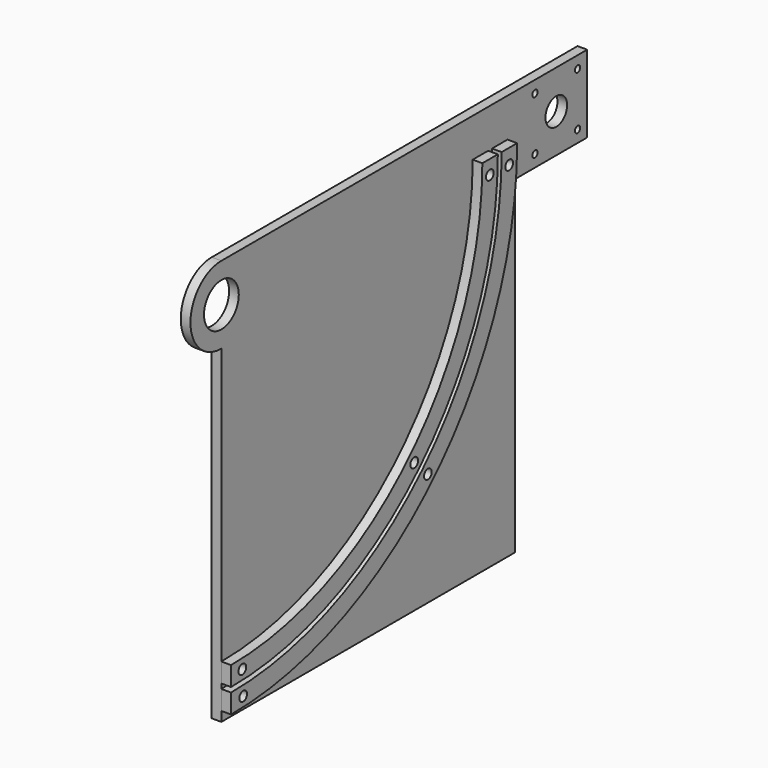
from build123d import *

# Parameters (mm, degrees)
F0_R     = 2.159
F0_R_2   = 8.89
F0_R_3   = 3.175
F1_DEPTH = 6.35
F2_DEPTH = 6.35
F3_DEPTH = 6.35


with BuildPart() as f1:
    # F0 (on Right) → F1 (new body)
    with BuildSketch(Plane.YZ):
        with BuildLine():
            Line((-136.1317900279, 241.3), (-125.0192900279, 241.3))
            ThreePointArc((-125.0192900279, 241.3), (-132.4587777858, 259.2605122421), (-150.4192900279, 266.7))
            ThreePointArc((-150.4192900279, 266.7), (-175.8192900279, 241.3), (-150.4192900279, 215.9))
            Line((-150.4192900279, 215.9), (-150.4192900279, 227.0125))
            ThreePointArc((-150.4192900279, 227.0125), (-160.5220781641, 251.4027881362), (-136.1317900279, 241.3))
        make_face()
        with BuildLine():
            ThreePointArc((-150.4192900279, 215.9), (-132.4587777858, 223.3394877579), (-125.0192900279, 241.3))
            Line((-125.0192900279, 241.3), (-136.1317900279, 241.3))
            ThreePointArc((-136.1317900279, 241.3), (-140.3165018917, 231.1972118638), (-150.4192900279, 227.0125))
            Line((-150.4192900279, 227.0125), (-150.4192900279, 215.9))
        make_face()
        with BuildLine():
            ThreePointArc((-150.4192900279, 266.7), (-132.4587777858, 259.2605122421), (-125.0192900279, 241.3))
            Line((-125.0192900279, 241.3), (55.9557099721, 241.3))
            Line((55.9557099721, 241.3), (68.6557099721, 241.3))
            Line((68.6557099721, 241.3), (71.8307099721, 241.3))
            Line((71.8307099721, 241.3), (84.5307099721, 241.3))
            Line((84.5307099721, 241.3), (90.8807099721, 241.3))
            Line((90.8807099721, 241.3), (90.8807099721, 266.7))
            Line((90.8807099721, 266.7), (-150.4192900279, 266.7))
        make_face()
        Polygon((150.0042899721, 266.7), (90.8807099721, 266.7), (90.8807099721, 241.3), (90.8807099721, 215.9), (150.0042899721, 215.9), align=None)
        with Locations((107.1042899721, 223.8)):
            Circle(F0_R, mode=Mode.SUBTRACT)
        with Locations((142.1042899721, 223.8)):
            Circle(F0_R, mode=Mode.SUBTRACT)
        with Locations((107.1042899721, 258.8)):
            Circle(F0_R, mode=Mode.SUBTRACT)
        with Locations((124.6042899721, 241.3)):
            Circle(F0_R_2, mode=Mode.SUBTRACT)
        with Locations((142.1042899721, 258.8)):
            Circle(F0_R, mode=Mode.SUBTRACT)
        with BuildLine():
            Line((90.8807099721, 215.9), (90.8807099721, 241.3))
            Line((90.8807099721, 241.3), (84.5307099721, 241.3))
            ThreePointArc((84.5307099721, 241.3), (15.7154482119, 75.1652617602), (-150.4192900279, 6.35))
            Line((-150.4192900279, 6.35), (-150.4192900279, 0))
            Line((-150.4192900279, 0), (90.8807099721, 0))
            Line((90.8807099721, 0), (90.8807099721, 215.9))
        make_face()
        with BuildLine():
            Line((84.5307099721, 241.3), (71.8307099721, 241.3))
            ThreePointArc((71.8307099721, 241.3), (6.7351920908, 84.1455178813), (-150.4192900279, 19.05))
            Line((-150.4192900279, 19.05), (-150.4192900279, 6.35))
            ThreePointArc((-150.4192900279, 6.35), (15.7154482119, 75.1652617602), (84.5307099721, 241.3))
        make_face()
        with Locations((-140.4478980762, 12.9175765464)):
            Circle(F0_R_3, mode=Mode.SUBTRACT)
        with Locations((11.2253201513, 79.6553898208)):
            Circle(F0_R_3, mode=Mode.SUBTRACT)
        with Locations((77.9631334257, 231.3286080483)):
            Circle(F0_R_3, mode=Mode.SUBTRACT)
        with BuildLine():
            Line((71.8307099721, 241.3), (68.6557099721, 241.3))
            ThreePointArc((68.6557099721, 241.3), (4.4901280605, 86.3905819116), (-150.4192900279, 22.225))
            Line((-150.4192900279, 22.225), (-150.4192900279, 19.05))
            ThreePointArc((-150.4192900279, 19.05), (6.7351920908, 84.1455178813), (71.8307099721, 241.3))
        make_face()
        with BuildLine():
            Line((68.6557099721, 241.3), (55.9557099721, 241.3))
            ThreePointArc((55.9557099721, 241.3), (-4.4901280605, 95.3708380326), (-150.4192900279, 34.925))
            Line((-150.4192900279, 34.925), (-150.4192900279, 22.225))
            ThreePointArc((-150.4192900279, 22.225), (4.4901280605, 86.3905819116), (68.6557099721, 241.3))
        make_face()
        with Locations((-141.1403558506, 28.777467064)):
            Circle(F0_R_3, mode=Mode.SUBTRACT)
        with Locations((0, 90.8807099721)):
            Circle(F0_R_3, mode=Mode.SUBTRACT)
        with Locations((62.1032429081, 232.0210658227)):
            Circle(F0_R_3, mode=Mode.SUBTRACT)
        with BuildLine():
            Line((55.9557099721, 241.3), (-125.0192900279, 241.3))
            ThreePointArc((-125.0192900279, 241.3), (-132.4587777858, 223.3394877579), (-150.4192900279, 215.9))
            Line((-150.4192900279, 215.9), (-150.4192900279, 34.925))
            ThreePointArc((-150.4192900279, 34.925), (-4.4901280605, 95.3708380326), (55.9557099721, 241.3))
        make_face()
    extrude(amount=-F1_DEPTH)


with BuildPart() as f2:
    # F0 (on Right) → F2 (new body)
    with BuildSketch(Plane.YZ):
        with BuildLine():
            Line((68.6557099721, 241.3), (55.9557099721, 241.3))
            ThreePointArc((55.9557099721, 241.3), (-4.4901280605, 95.3708380326), (-150.4192900279, 34.925))
            Line((-150.4192900279, 34.925), (-150.4192900279, 22.225))
            ThreePointArc((-150.4192900279, 22.225), (4.4901280605, 86.3905819116), (68.6557099721, 241.3))
        make_face()
        with Locations((-141.1403558506, 28.777467064)):
            Circle(F0_R_3, mode=Mode.SUBTRACT)
        with Locations((0, 90.8807099721)):
            Circle(F0_R_3, mode=Mode.SUBTRACT)
        with Locations((62.1032429081, 232.0210658227)):
            Circle(F0_R_3, mode=Mode.SUBTRACT)
    extrude(amount=F2_DEPTH)


with BuildPart() as f3:
    # F0 (on Right) → F3 (new body)
    with BuildSketch(Plane.YZ):
        with BuildLine():
            Line((84.5307099721, 241.3), (71.8307099721, 241.3))
            ThreePointArc((71.8307099721, 241.3), (6.7351920908, 84.1455178813), (-150.4192900279, 19.05))
            Line((-150.4192900279, 19.05), (-150.4192900279, 6.35))
            ThreePointArc((-150.4192900279, 6.35), (15.7154482119, 75.1652617602), (84.5307099721, 241.3))
        make_face()
        with Locations((-140.4478980762, 12.9175765464)):
            Circle(F0_R_3, mode=Mode.SUBTRACT)
        with Locations((11.2253201513, 79.6553898208)):
            Circle(F0_R_3, mode=Mode.SUBTRACT)
        with Locations((77.9631334257, 231.3286080483)):
            Circle(F0_R_3, mode=Mode.SUBTRACT)
    extrude(amount=F3_DEPTH)


solid = Compound([f1.part, f2.part, f3.part])
